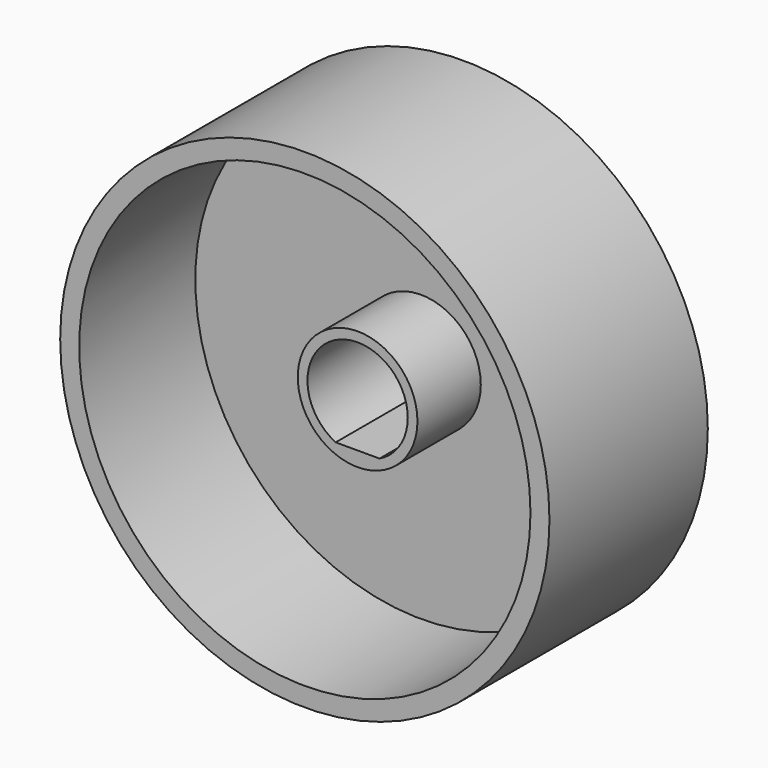
from build123d import *

# Parameters (mm, degrees)
F0_R     = 18.54
F1_DEPTH = 15
F2_R     = 17.1
F3_DEPTH = 11
F5_R     = 4.535
F6_DEPTH = 6
F9_DEPTH = 9.01


with BuildPart() as f1:
    # F0 (on Front) → F1 (new body)
    with BuildSketch(Plane.XZ):
        Circle(F0_R)
        with BuildLine():
            ThreePointArc((-2.5, -3.783679), (-2.148107, 3.993978), (4.535, 0))
            ThreePointArc((4.535, 0), (3.993978, -2.148107), (2.5, -3.783679))
            ThreePointArc((2.5, -3.783679), (0, -4.535), (-2.5, -3.783679))
        make_face(mode=Mode.SUBTRACT)
        with BuildLine():
            ThreePointArc((2.5, -3.783679), (3.993978, -2.148107), (4.535, 0))
            ThreePointArc((4.535, 0), (-2.148107, 3.993978), (-2.5, -3.783679))
            Line((-2.5, -3.783679), (2.5, -3.783679))
        make_face()
        with BuildLine():
            Line((2.5, -3.783679), (-2.5, -3.783679))
            ThreePointArc((-2.5, -3.783679), (0, -4.535), (2.5, -3.783679))
        make_face()
    extrude(amount=F1_DEPTH)

    # F2 (on face) → F3 (cut)
    with BuildSketch(Plane.XZ.offset(15)):
        Circle(F2_R)
    extrude(amount=-F3_DEPTH, mode=Mode.SUBTRACT)

    # F5 (on face) → F6 (join)
    with BuildSketch(Plane.XZ.offset(4)):
        Circle(F5_R)
    extrude(amount=F6_DEPTH)

    # F8 (on face) → F9 (cut)
    with BuildSketch(Plane.XZ.offset(10)):
        with BuildLine():
            ThreePointArc((1.662322, -3.417117), (3.221554, -2.015338), (3.8, 0))
            ThreePointArc((3.8, 0), (-2.015338, 3.221554), (-1.662322, -3.417117))
            Line((-1.662322, -3.417117), (1.662322, -3.417117))
        make_face()
    extrude(amount=-F9_DEPTH, mode=Mode.SUBTRACT)


solid = f1.part
